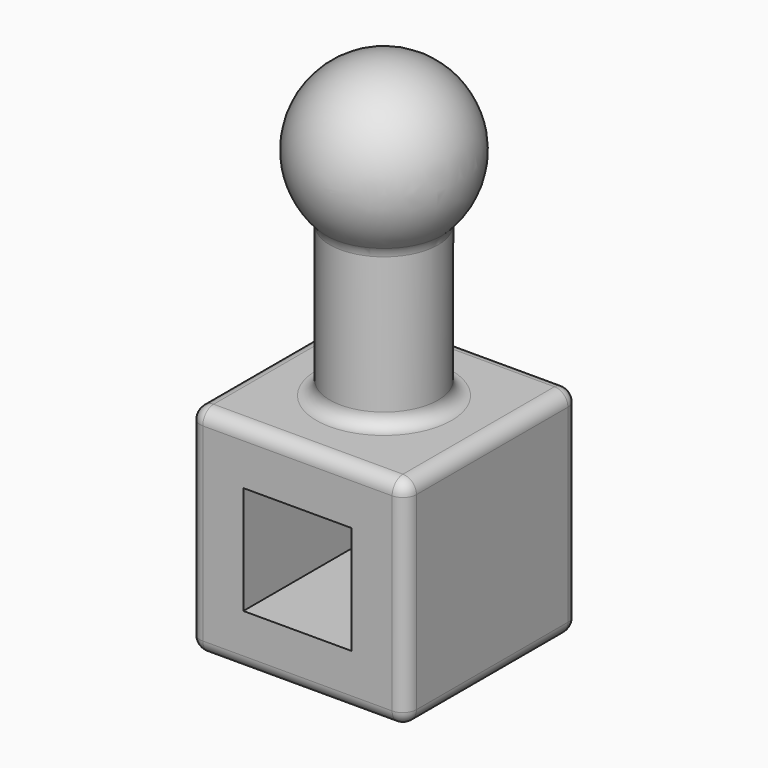
from build123d import *

# Parameters (mm, degrees)
F0_W     = 101.6
F0_H     = 101.6
F1_DEPTH = 101.6
F2_R     = 25.4
F3_DEPTH = 101.6
F6_W     = 50.8
F6_H     = 50.8
F7_DEPTH = 101.6
F8_R     = 6.35


with BuildPart() as f1:
    # F0 (on Top) → F1 (new body)
    with BuildSketch(Plane.XY):
        Rectangle(F0_W, F0_H)
    extrude(amount=F1_DEPTH)

    # F2 (on face) → F3 (join)
    with BuildSketch(Plane.XY.offset(101.6)):
        Circle(F2_R)
    extrude(amount=F3_DEPTH)

    # F4 (on face) → F5 (revolve)
    with BuildSketch(Plane.XY.offset(203.2)):
        with BuildLine():
            Line((0, -25.4), (0, -38.1))
            ThreePointArc((0, -38.1), (38.1, 0), (0, 38.1))
            Line((0, 38.1), (0, 25.4))
            ThreePointArc((0, 25.4), (17.9605122421, 17.9605122421), (25.4, 0))
            ThreePointArc((25.4, 0), (17.9605122421, -17.9605122421), (0, -25.4))
        make_face()
        with BuildLine():
            Line((0, 25.4), (0, -25.4))
            ThreePointArc((0, -25.4), (17.9605122421, -17.9605122421), (25.4, 0))
            ThreePointArc((25.4, 0), (17.9605122421, 17.9605122421), (0, 25.4))
        make_face()
    revolve(axis=Axis((0, 0, 203.2), (0, -1, 0)))

    # F6 (on face) → F7 (cut)
    with BuildSketch(Plane.XZ.offset(50.8)):
        with Locations((0, 50.3355711699)):
            Rectangle(F6_W, F6_H)
    extrude(amount=-F7_DEPTH, mode=Mode.SUBTRACT)

    # F8
    f8_edges = [f1.edges().sort_by_distance(p)[0] for p in [
        (50.8, -50.8, 50.8),
        (50.8, 0, 101.6),
        (50.8, 0, 0),
        (50.8, 50.8, 50.8),
        (-50.8, 0, 101.6),
        (0, -50.8, 101.6),
        (-50.8, -50.8, 50.8),
        (0, 50.8, 101.6),
        (0, -50.8, 0),
        (0, 50.8, 0),
        (-50.8, 0, 0),
        (-50.8, 50.8, 50.8),
        (-25.4, 0, 101.6),
        (-25.4, 0, 174.801937),
    ]]
    fillet(f8_edges, radius=F8_R)


solid = f1.part
